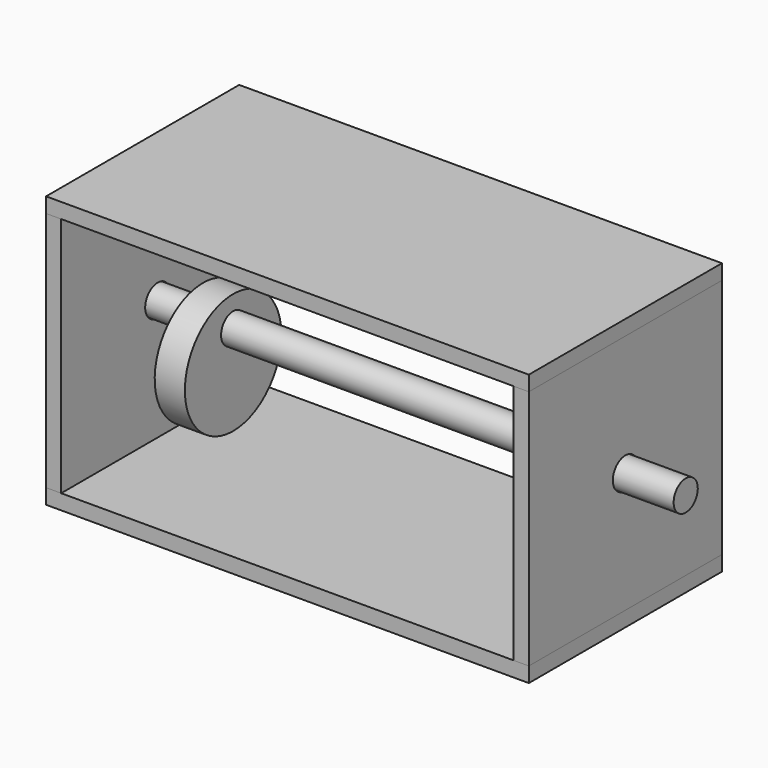
from build123d import *

# Parameters (mm, degrees)
F1_DEPTH      = 50.8
F2_DEPTH      = 50.8
F2_DEPTH_BACK = 50.8
F3_R          = 6.604
F3_R_2        = 6.35
F4_DEPTH      = 203.201
F5_DEPTH      = 25.4
F5_DEPTH_BACK = 203.2
F0_W          = 12.7
F0_H          = 25.4


with BuildPart() as f1:
    # F0 (on Front) → F1 (new body, symmetric)
    with BuildSketch(Plane.XZ):
        Polygon((-101.6, 6.35), (-101.6, 0), (101.6, 0), (101.6, 6.35), (95.25, 6.35), (-95.25, 6.35), align=None)
    extrude(amount=F1_DEPTH, both=True)


with BuildPart() as f1b:
    # F0 (on Front) → F1, piece 2 (new body, symmetric)
    with BuildSketch(Plane.XZ):
        Polygon((-101.6, 114.3), (-101.6, 107.95), (-95.25, 107.95), (95.25, 107.95), (101.6, 107.95), (101.6, 114.3), align=None)
    extrude(amount=F1_DEPTH, both=True)


with BuildPart() as f2:
    # F0 (on Front) → F2 (new body, two sides)
    with BuildSketch(Plane.XZ) as f2_sk:
        Polygon((-101.6, 107.95), (-101.6, 6.35), (-95.25, 6.35), (-95.25, 57.15), (-95.25, 107.95), align=None)
    extrude(amount=F2_DEPTH)
    extrude(f2_sk.sketch, amount=-F2_DEPTH_BACK)


with BuildPart() as f2b:
    # F0 (on Front) → F2, piece 2 (new body, two sides)
    with BuildSketch(Plane.XZ) as f2_2_sk:
        Polygon((95.25, 6.35), (101.6, 6.35), (101.6, 107.95), (95.25, 107.95), (95.25, 57.15), align=None)
    extrude(amount=F2_DEPTH)
    extrude(f2_2_sk.sketch, amount=-F2_DEPTH_BACK)


with BuildPart() as f4_tool:
    # F3 (on face) → F4 (new body, through all)
    with BuildSketch(Plane.YZ.offset(101.6)):
        with Locations((0, 57.15)):
            Circle(F3_R)
        with Locations((0, 57.15)):
            Circle(F3_R_2, mode=Mode.SUBTRACT)
        with Locations((0, 57.15)):
            Circle(F3_R_2)
    extrude(amount=-F4_DEPTH)


with BuildPart() as f2_1:
    add(f2.part)

    # F4: cut by f4_tool
    add(f4_tool.part, mode=Mode.SUBTRACT)


with BuildPart() as f2b_1:
    add(f2b.part)

    # F4: cut by f4_tool
    add(f4_tool.part, mode=Mode.SUBTRACT)


with BuildPart() as f5:
    # F3 (on face) → F5 (new body, two sides)
    with BuildSketch(Plane.YZ.offset(101.6)) as f5_sk:
        with Locations((0, 57.15)):
            Circle(F3_R_2)
    extrude(amount=F5_DEPTH)
    extrude(f5_sk.sketch, amount=-F5_DEPTH_BACK)


with BuildPart() as f6:
    # F0 (on Front) → F6 (revolve)
    with BuildSketch(Plane.XZ):
        with Locations((-69.85, 31.75)):
            Rectangle(F0_W, F0_H)
    revolve(axis=Axis((-69.85, 0, 44.45), (1, 0, 0)))


solid = Compound([f1.part, f1b.part, f2_1.part, f2b_1.part, f5.part, f6.part])
